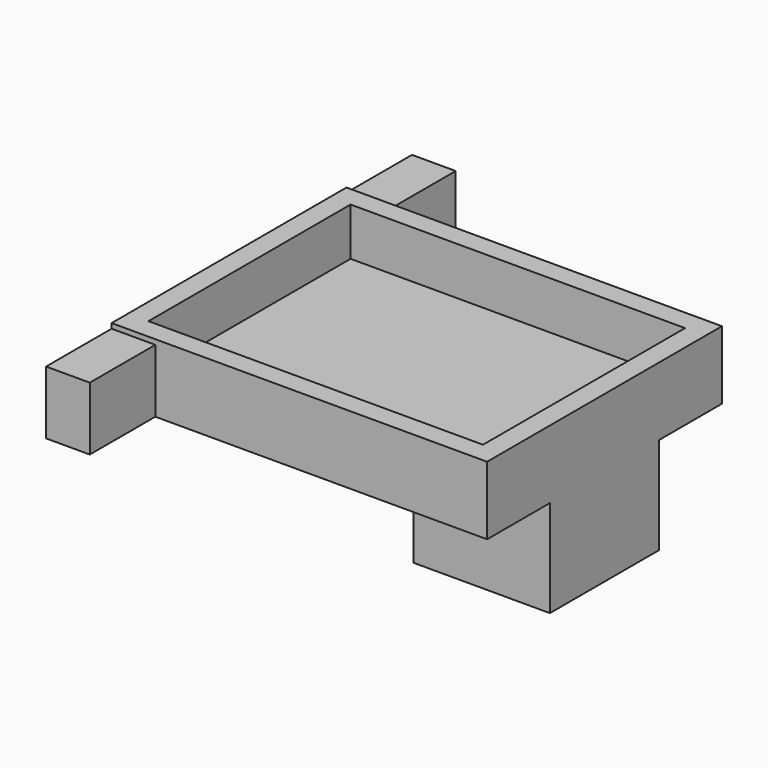
from build123d import *

# Parameters (mm, degrees)
F1_DEPTH = 5
F2_T     = -1.5
F3_W     = 8.5
F3_H     = 10
F3_W_2   = 1.5
F4_DEPTH = 8.6
F5_W     = 3.2
F5_H     = 4.6355582315
F6_DEPTH = 6
F7_W     = 3.2
F7_H     = 4.6664974656
F8_DEPTH = 6


with BuildPart() as f1:
    # F0 (on Top) → F1 (new body)
    with BuildSketch(Plane.XY):
        Polygon((-0.1638537049, 29.7847446054), (-27.6638537049, 29.7847446054), (-27.6638537049, 19.0347446054), (-27.6638537049, 8.2847446054), (-0.1638537049, 8.2847446054), align=None)
    extrude(amount=F1_DEPTH)

    # F2
    f2_openings = [f1.faces().sort_by_distance(p)[0] for p in [
        (-13.913854, 19.034745, 5),
    ]]
    offset(amount=F2_T, openings=f2_openings)

    # F3 (on face) → F4 (join)
    with BuildSketch(Plane.XY.offset(1.5)):
        with Locations((-5.9138537049, 19.0347446054)):
            Rectangle(F3_W, F3_H)
        with Locations((-0.9138537049, 19.0347446054)):
            Rectangle(F3_W_2, F3_H)
    extrude(amount=-F4_DEPTH)

    # F5 (on face) → F6 (join)
    with BuildSketch(Plane.XZ.offset(-8.2847446054)):
        with Locations((-26.0638537049, 2.3177791158)):
            Rectangle(F5_W, F5_H)
    extrude(amount=F6_DEPTH)

    # F7 (on face) → F8 (join)
    with BuildSketch(Plane(origin=(0, 29.7847446054, 0), x_dir=(-1, 0, 0), z_dir=(0, 1, 0))):
        with Locations((26.0638537049, 2.3332487328)):
            Rectangle(F7_W, F7_H)
    extrude(amount=F8_DEPTH)


solid = f1.part
